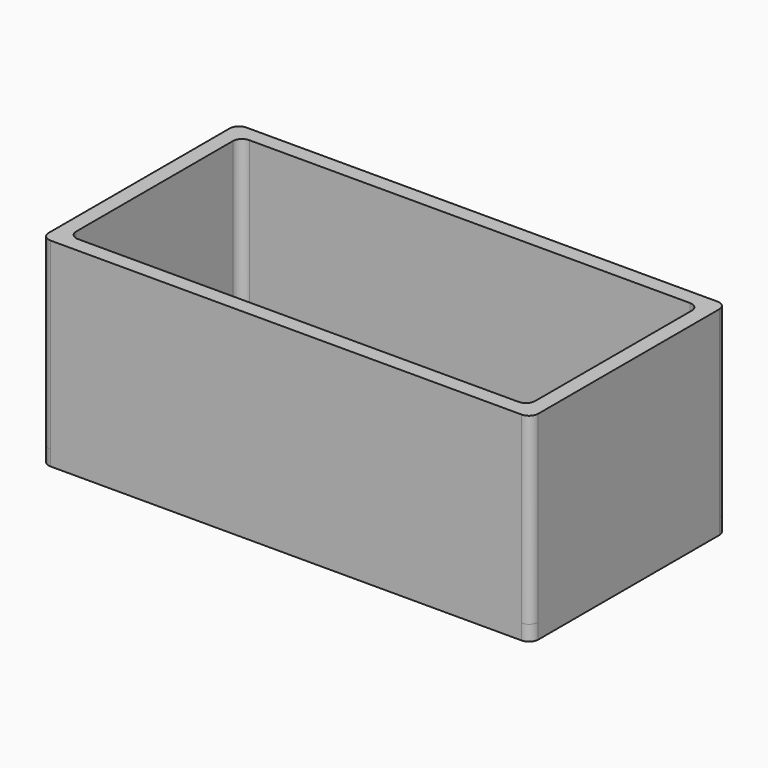
from build123d import *

# Parameters (mm, degrees)
F0_W     = 800
F0_H     = 400
F0_W_2   = 750
F0_H_2   = 350
F1_DEPTH = 300
F2_R     = 15
F4_DEPTH = 25


with BuildPart() as f1:
    # F0 (on Top) → F1 (new body)
    with BuildSketch(Plane.XY):
        with Locations((400, 200)):
            Rectangle(F0_W, F0_H)
        with Locations((400, 200)):
            Rectangle(F0_W_2, F0_H_2, mode=Mode.SUBTRACT)
    extrude(amount=F1_DEPTH)

    # F2
    f2_edges = [f1.edges().sort_by_distance(p)[0] for p in [
        (0, 0, 150),
        (800, 0, 150),
        (0, 400, 150),
        (800, 400, 150),
        (25, 25, 150),
        (25, 375, 150),
        (775, 25, 150),
        (775, 375, 150),
    ]]
    fillet(f2_edges, radius=F2_R)

    # F3 (on face) → F4 (join)
    with BuildSketch(Plane(origin=(0, 0, 0), x_dir=(1, 0, 0), z_dir=(0, 0, -1))):
        with BuildLine():
            ThreePointArc((800, -15), (795.606602, -4.393398), (785, 0))
            Line((785, 0), (15, 0))
            ThreePointArc((15, 0), (4.393398, -4.393398), (0, -15))
            Line((0, -15), (0, -385))
            ThreePointArc((0, -385), (4.393398, -395.606602), (15, -400))
            Line((15, -400), (785, -400))
            ThreePointArc((785, -400), (795.606602, -395.606602), (800, -385))
            Line((800, -385), (800, -15))
        make_face()
    extrude(amount=F4_DEPTH)


solid = f1.part
